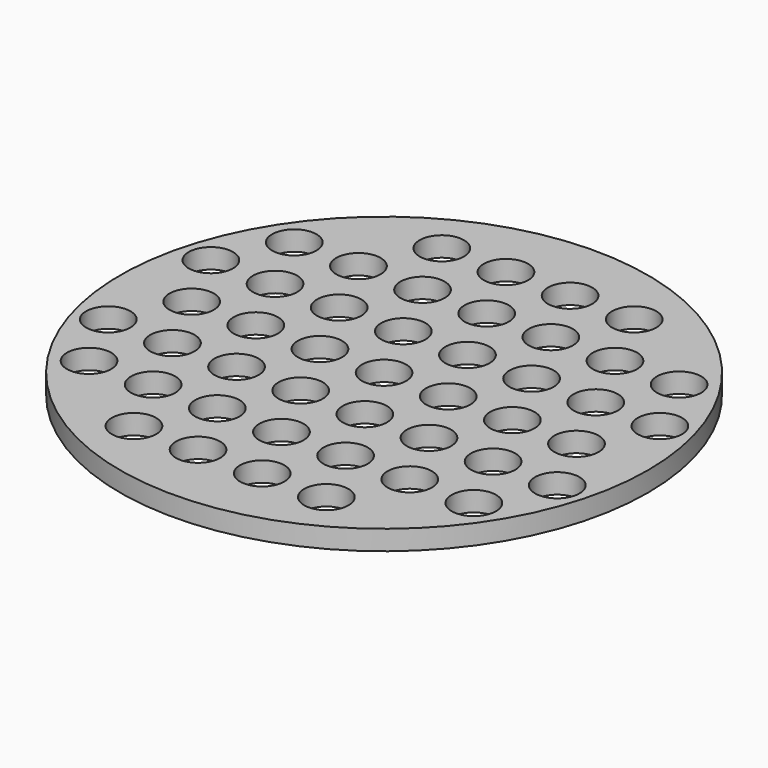
from build123d import *

# Parameters (mm, degrees)
F0_R     = 127
F0_R_2   = 10.668
F1_DEPTH = 9.525


with BuildPart() as f1:
    # F0 (on Top) → F1 (new body)
    with BuildSketch(Plane.XY):
        Circle(F0_R)
        with Locations((-46.2915, -92.583)):
            Circle(F0_R_2, mode=Mode.SUBTRACT)
        with Locations((-15.4305, -92.583)):
            Circle(F0_R_2, mode=Mode.SUBTRACT)
        with Locations((-92.583, -61.722)):
            Circle(F0_R_2, mode=Mode.SUBTRACT)
        with Locations((-108.0135, -30.861)):
            Circle(F0_R_2, mode=Mode.SUBTRACT)
        with Locations((-77.1525, -30.861)):
            Circle(F0_R_2, mode=Mode.SUBTRACT)
        with Locations((-61.722, -61.722)):
            Circle(F0_R_2, mode=Mode.SUBTRACT)
        with Locations((-30.861, -61.722)):
            Circle(F0_R_2, mode=Mode.SUBTRACT)
        with Locations((-46.2915, -30.861)):
            Circle(F0_R_2, mode=Mode.SUBTRACT)
        with Locations((-15.4305, -30.861)):
            Circle(F0_R_2, mode=Mode.SUBTRACT)
        with Locations((15.4305, -92.583)):
            Circle(F0_R_2, mode=Mode.SUBTRACT)
        with Locations((46.2915, -92.583)):
            Circle(F0_R_2, mode=Mode.SUBTRACT)
        with Locations((0, -61.722)):
            Circle(F0_R_2, mode=Mode.SUBTRACT)
        with Locations((30.861, -61.722)):
            Circle(F0_R_2, mode=Mode.SUBTRACT)
        with Locations((61.722, -61.722)):
            Circle(F0_R_2, mode=Mode.SUBTRACT)
        with Locations((15.4305, -30.861)):
            Circle(F0_R_2, mode=Mode.SUBTRACT)
        with Locations((46.2915, -30.861)):
            Circle(F0_R_2, mode=Mode.SUBTRACT)
        with Locations((92.583, -61.722)):
            Circle(F0_R_2, mode=Mode.SUBTRACT)
        with Locations((77.1525, -30.861)):
            Circle(F0_R_2, mode=Mode.SUBTRACT)
        with Locations((108.0135, -30.861)):
            Circle(F0_R_2, mode=Mode.SUBTRACT)
        with Locations((-108.0135, 30.861)):
            Circle(F0_R_2, mode=Mode.SUBTRACT)
        with Locations((-92.583, 0)):
            Circle(F0_R_2, mode=Mode.SUBTRACT)
        with Locations((-77.1525, 30.861)):
            Circle(F0_R_2, mode=Mode.SUBTRACT)
        with Locations((-92.583, 61.722)):
            Circle(F0_R_2, mode=Mode.SUBTRACT)
        with Locations((-61.722, 0)):
            Circle(F0_R_2, mode=Mode.SUBTRACT)
        with Locations((-46.2915, 30.861)):
            Circle(F0_R_2, mode=Mode.SUBTRACT)
        with Locations((-30.861, 0)):
            Circle(F0_R_2, mode=Mode.SUBTRACT)
        with Locations((-15.4305, 30.861)):
            Circle(F0_R_2, mode=Mode.SUBTRACT)
        with Locations((-61.722, 61.722)):
            Circle(F0_R_2, mode=Mode.SUBTRACT)
        with Locations((-30.861, 61.722)):
            Circle(F0_R_2, mode=Mode.SUBTRACT)
        with Locations((-46.2915, 92.583)):
            Circle(F0_R_2, mode=Mode.SUBTRACT)
        with Locations((-15.4305, 92.583)):
            Circle(F0_R_2, mode=Mode.SUBTRACT)
        Circle(F0_R_2, mode=Mode.SUBTRACT)
        with Locations((30.861, 0)):
            Circle(F0_R_2, mode=Mode.SUBTRACT)
        with Locations((15.4305, 30.861)):
            Circle(F0_R_2, mode=Mode.SUBTRACT)
        with Locations((61.722, 0)):
            Circle(F0_R_2, mode=Mode.SUBTRACT)
        with Locations((46.2915, 30.861)):
            Circle(F0_R_2, mode=Mode.SUBTRACT)
        with Locations((0, 61.722)):
            Circle(F0_R_2, mode=Mode.SUBTRACT)
        with Locations((30.861, 61.722)):
            Circle(F0_R_2, mode=Mode.SUBTRACT)
        with Locations((61.722, 61.722)):
            Circle(F0_R_2, mode=Mode.SUBTRACT)
        with Locations((92.583, 0)):
            Circle(F0_R_2, mode=Mode.SUBTRACT)
        with Locations((77.1525, 30.861)):
            Circle(F0_R_2, mode=Mode.SUBTRACT)
        with Locations((108.0135, 30.861)):
            Circle(F0_R_2, mode=Mode.SUBTRACT)
        with Locations((92.583, 61.722)):
            Circle(F0_R_2, mode=Mode.SUBTRACT)
        with Locations((15.4305, 92.583)):
            Circle(F0_R_2, mode=Mode.SUBTRACT)
        with Locations((46.2915, 92.583)):
            Circle(F0_R_2, mode=Mode.SUBTRACT)
    extrude(amount=F1_DEPTH)


solid = f1.part
